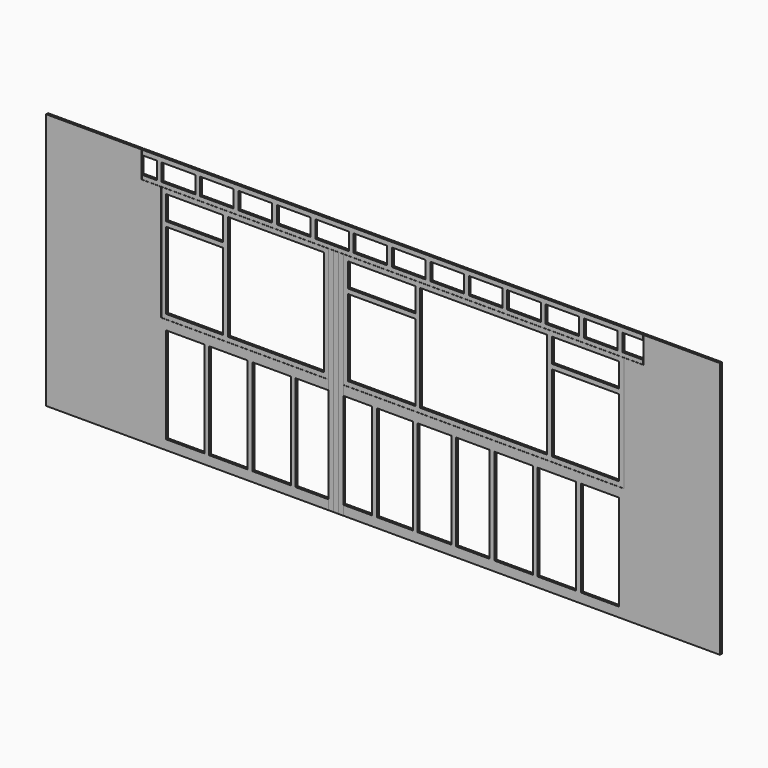
from build123d import *

# Parameters (mm, degrees)
F0_W      = 50
F0_H      = 180
F1_DEPTH  = 25
F2_W      = 50
F2_H      = 2400
F3_DEPTH  = 25
F4_W      = 1743
F4_H      = 1200
F4_W_2    = 593
F4_H_2    = 800
F4_W_3    = 1000
F4_H_3    = 1100
F4_H_4    = 250
F5_DEPTH  = 25
F6_W      = 996
F6_H      = 275.2307936182
F7_DEPTH  = 25
F8_W      = 2923
F8_H      = 1200
F8_W_2    = 700
F8_H_2    = 800
F8_H_3    = 250
F8_W_3    = 1323
F8_H_4    = 1100
F9_DEPTH  = 25
F11_DEPTH = 25
F12_W     = 400
F12_H     = 1000
F12_W_2   = 344
F12_W_3   = 374
F12_W_4   = 350
F12_W_5   = 300
F13_DEPTH = 25


with BuildPart() as f1:
    # F0 (on Front) → F1 (new body)
    with BuildSketch(Plane.XZ):
        with Locations((-529.2276785159, 127.8227480803)):
            Rectangle(F0_W, F0_H)
        Polygon((4511.9260993531, 267.8227480803), (-708.0739006469, 267.8227480803), (-708.0739006469, 217.8227480803), (-554.2276785159, 217.8227480803), (-504.2276785159, 217.8227480803), (-154.2276785159, 217.8227480803), (-104.2276785159, 217.8227480803), (245.7723214841, 217.8227480803), (295.7723214841, 217.8227480803), (645.7723214841, 217.8227480803), (695.7723214841, 217.8227480803), (1045.7723214841, 217.8227480803), (1095.7723214841, 217.8227480803), (1445.7723214841, 217.8227480803), (1495.7723214841, 217.8227480803), (1845.7723214841, 217.8227480803), (1895.7723214841, 217.8227480803), (2245.7723214841, 217.8227480803), (2295.7723214841, 217.8227480803), (2645.7723214841, 217.8227480803), (2695.7723214841, 217.8227480803), (3045.7723214841, 217.8227480803), (3095.7723214841, 217.8227480803), (3445.7723214841, 217.8227480803), (3495.7723214841, 217.8227480803), (3845.7723214841, 217.8227480803), (3895.7723214841, 217.8227480803), (4245.7723214841, 217.8227480803), (4295.7723214841, 217.8227480803), (4511.9260993531, 217.8227480803), align=None)
        Polygon((-504.2276785159, 37.8227480803), (-554.2276785159, 37.8227480803), (-708.0739006469, 37.8227480803), (-708.0739006469, -6.4080455378), (4511.9260993531, -6.4080455378), (4511.9260993531, 37.8227480803), (4295.7723214841, 37.8227480803), (4245.7723214841, 37.8227480803), (3895.7723214841, 37.8227480803), (3845.7723214841, 37.8227480803), (3495.7723214841, 37.8227480803), (3445.7723214841, 37.8227480803), (3095.7723214841, 37.8227480803), (3045.7723214841, 37.8227480803), (2695.7723214841, 37.8227480803), (2645.7723214841, 37.8227480803), (2295.7723214841, 37.8227480803), (2245.7723214841, 37.8227480803), (1895.7723214841, 37.8227480803), (1845.7723214841, 37.8227480803), (1495.7723214841, 37.8227480803), (1445.7723214841, 37.8227480803), (1095.7723214841, 37.8227480803), (1045.7723214841, 37.8227480803), (695.7723214841, 37.8227480803), (645.7723214841, 37.8227480803), (295.7723214841, 37.8227480803), (245.7723214841, 37.8227480803), (-104.2276785159, 37.8227480803), (-154.2276785159, 37.8227480803), align=None)
        with Locations((-129.2276785159, 127.8227480803)):
            Rectangle(F0_W, F0_H)
        with Locations((270.7723214841, 127.8227480803)):
            Rectangle(F0_W, F0_H)
        with Locations((670.7723214841, 127.8227480803)):
            Rectangle(F0_W, F0_H)
        with Locations((1070.7723214841, 127.8227480803)):
            Rectangle(F0_W, F0_H)
        with Locations((1470.7723214841, 127.8227480803)):
            Rectangle(F0_W, F0_H)
        with Locations((1870.7723214841, 127.8227480803)):
            Rectangle(F0_W, F0_H)
        with Locations((2270.7723214841, 127.8227480803)):
            Rectangle(F0_W, F0_H)
        with Locations((2670.7723214841, 127.8227480803)):
            Rectangle(F0_W, F0_H)
        with Locations((3070.7723214841, 127.8227480803)):
            Rectangle(F0_W, F0_H)
        with Locations((3470.7723214841, 127.8227480803)):
            Rectangle(F0_W, F0_H)
        with Locations((3870.7723214841, 127.8227480803)):
            Rectangle(F0_W, F0_H)
        with Locations((4270.7723214841, 127.8227480803)):
            Rectangle(F0_W, F0_H)
    extrude(amount=F1_DEPTH)


with BuildPart() as f3:
    # F2 (on Front) → F3 (new body)
    with BuildSketch(Plane.XZ):
        with Locations((1260.9260993531, -1207.4080455378)):
            Rectangle(F2_W, F2_H)
    extrude(amount=F3_DEPTH)


with BuildPart() as f3b:
    # F2 (on Front) → F3, piece 2 (new body)
    with BuildSketch(Plane.XZ):
        with Locations((1311.9260993531, -1207.4080455378)):
            Rectangle(F2_W, F2_H)
    extrude(amount=F3_DEPTH)


with BuildPart() as f3c:
    # F2 (on Front) → F3, piece 3 (new body)
    with BuildSketch(Plane.XZ):
        with Locations((1362.9260993531, -1207.4080455378)):
            Rectangle(F2_W, F2_H)
    extrude(amount=F3_DEPTH)


with BuildPart() as f5:
    # F4 (on Front) → F5 (new body)
    with BuildSketch(Plane.XZ):
        with Locations((363.4260993531, -607.4080455378)):
            Rectangle(F4_W, F4_H)
        with Locations((-161.5739006469, -757.4080455378)):
            Rectangle(F4_W_2, F4_H_2, mode=Mode.SUBTRACT)
        with Locations((684.9260993531, -607.4080455378)):
            Rectangle(F4_W_3, F4_H_3, mode=Mode.SUBTRACT)
        with Locations((-161.5739006469, -182.4080455378)):
            Rectangle(F4_W_2, F4_H_4, mode=Mode.SUBTRACT)
    extrude(amount=F5_DEPTH)


with BuildPart() as f7:
    # F6 (on Front) → F7 (new body)
    with BuildSketch(Plane.XZ):
        with Locations((-1211.0739006469, 130.2073512713)):
            Rectangle(F6_W, F6_H)
        Polygon((-713.0739006469, -7.4080455378), (-1709.0739006469, -7.4080455378), (-1709.0739006469, -2407.4080455378), (1234.9260993531, -2407.4080455378), (1234.9260993531, -1208.4080455378), (-509.0739006469, -1208.4080455378), (-509.0739006469, -7.4080455378), align=None)
    extrude(amount=F7_DEPTH)


with BuildPart() as f9:
    # F8 (on Front) → F9 (new body)
    with BuildSketch(Plane.XZ):
        with Locations((2850.4260993531, -607.4080455378)):
            Rectangle(F8_W, F8_H)
        with Locations((1788.9260993531, -757.4080455378)):
            Rectangle(F8_W_2, F8_H_2, mode=Mode.SUBTRACT)
        with Locations((3911.9260993531, -757.4080455378)):
            Rectangle(F8_W_2, F8_H_2, mode=Mode.SUBTRACT)
        with Locations((1788.9260993531, -182.4080455378)):
            Rectangle(F8_W_2, F8_H_3, mode=Mode.SUBTRACT)
        with Locations((2850.4260993531, -607.4080455378)):
            Rectangle(F8_W_3, F8_H_4, mode=Mode.SUBTRACT)
        with Locations((3911.9260993531, -182.4080455378)):
            Rectangle(F8_W_2, F8_H_3, mode=Mode.SUBTRACT)
    extrude(amount=F9_DEPTH)


with BuildPart() as f11:
    # F10 (on Front) → F11 (new body)
    with BuildSketch(Plane.XZ):
        Polygon((4312.9260993531, -1208.4080455378), (1388.9260993531, -1208.4080455378), (1388.9260993531, -2407.4080455378), (5312.9260993531, -2407.4080455378), (5312.9260993531, 267.8227480803), (4516.9260993531, 267.8227480803), (4516.9260993531, -7.4080455378), (4312.9260993531, -7.4080455378), align=None)
    extrude(amount=F11_DEPTH)


with BuildPart() as f13_tool:
    # F12 (on face) → F13 (new body)
    with BuildSketch(Plane.XZ.offset(25)):
        with Locations((190.9260993531, -1807.4080455378)):
            Rectangle(F12_W, F12_H)
        with Locations((-259.0739006469, -1807.4080455378)):
            Rectangle(F12_W, F12_H)
        with Locations((640.9260993531, -1807.4080455378)):
            Rectangle(F12_W, F12_H)
        with Locations((1062.9260993531, -1807.4080455378)):
            Rectangle(F12_W_2, F12_H)
        with Locations((1925.9260993531, -1807.4080455378)):
            Rectangle(F12_W_3, F12_H)
        with Locations((2337.9260993531, -1807.4080455378)):
            Rectangle(F12_W_4, F12_H)
        with Locations((2737.9260993531, -1807.4080455378)):
            Rectangle(F12_W_4, F12_H)
        with Locations((3162.9260993531, -1807.4080455378)):
            Rectangle(F12_W, F12_H)
        with Locations((3612.9260993531, -1807.4080455378)):
            Rectangle(F12_W, F12_H)
        with Locations((4062.9260993531, -1807.4080455378)):
            Rectangle(F12_W, F12_H)
        with Locations((1538.9260993531, -1807.4080455378)):
            Rectangle(F12_W_5, F12_H)
    extrude(amount=-F13_DEPTH)


with BuildPart() as f7_1:
    add(f7.part)

    # F13: cut by f13_tool
    add(f13_tool.part, mode=Mode.SUBTRACT)


with BuildPart() as f11_1:
    add(f11.part)

    # F13: cut by f13_tool
    add(f13_tool.part, mode=Mode.SUBTRACT)


solid = Compound([f1.part, f3.part, f3b.part, f3c.part, f5.part, f9.part, f7_1.part, f11_1.part])
